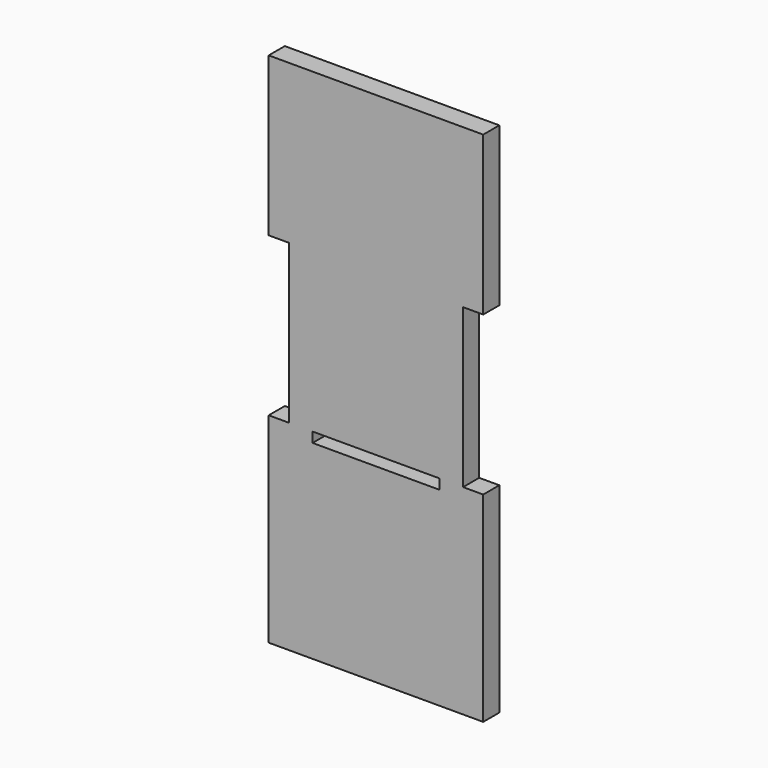
from build123d import *

# Parameters (mm, degrees)
F0_W     = 40
F0_H     = 3.175
F1_DEPTH = 6.35


with BuildPart() as f1:
    # F0 (on Front) → F1 (new body)
    with BuildSketch(Plane.XZ):
        Polygon((33.85, 83.593182), (-33.85, 83.593182), (-33.85, 33.593182), (-27.5, 33.593182), (-27.5, -16.406818), (-33.85, -16.406818), (-33.85, -79.581818), (33.85, -79.581818), (33.85, -16.406818), (27.5, -16.406818), (27.5, 33.593182), (33.85, 33.593182), align=None)
        with Locations((0, -17.994318)):
            Rectangle(F0_W, F0_H, mode=Mode.SUBTRACT)
    extrude(amount=F1_DEPTH)


solid = f1.part
